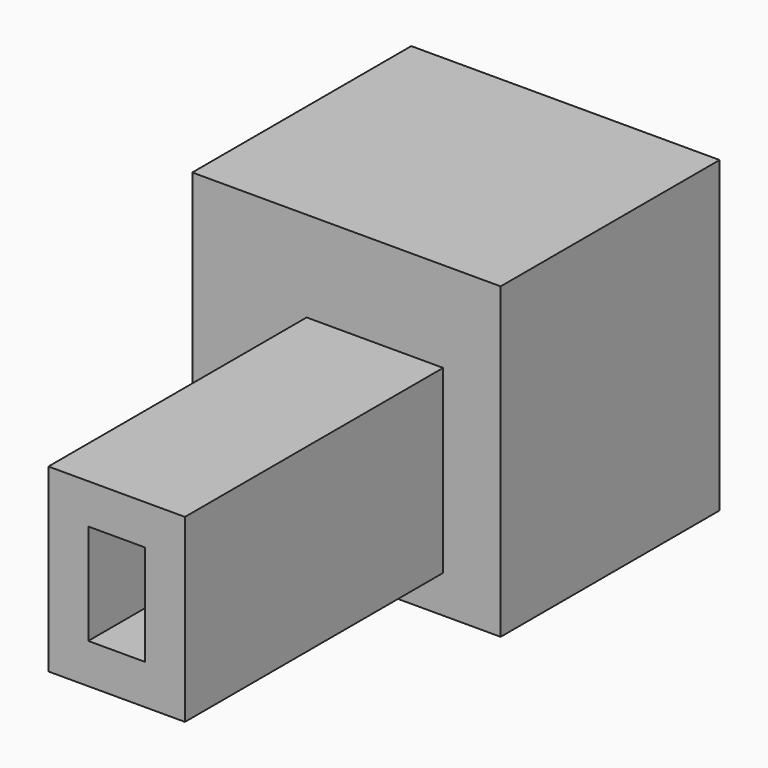
from build123d import *

# Parameters (mm, degrees)
F0_W     = 98.244294
F0_H     = 87.201328
F1_DEPTH = 98.309517
F2_W     = 43.504586
F2_H     = 57.501942
F2_W_2   = 18.104586
F2_H_2   = 32.101942
F3_DEPTH = 102.833793


with BuildPart() as f1:
    # F0 (on Top) → F1 (new body)
    with BuildSketch(Plane.XY):
        Rectangle(F0_W, F0_H)
    extrude(amount=F1_DEPTH)

    # F2 (on face) → F3 (join)
    with BuildSketch(Plane.XZ.offset(43.600664)):
        with Locations((9.052293, 40.737569)):
            Rectangle(F2_W, F2_H)
        with Locations((9.052293, 40.737569)):
            Rectangle(F2_W_2, F2_H_2, mode=Mode.SUBTRACT)
    extrude(amount=F3_DEPTH)


solid = f1.part
